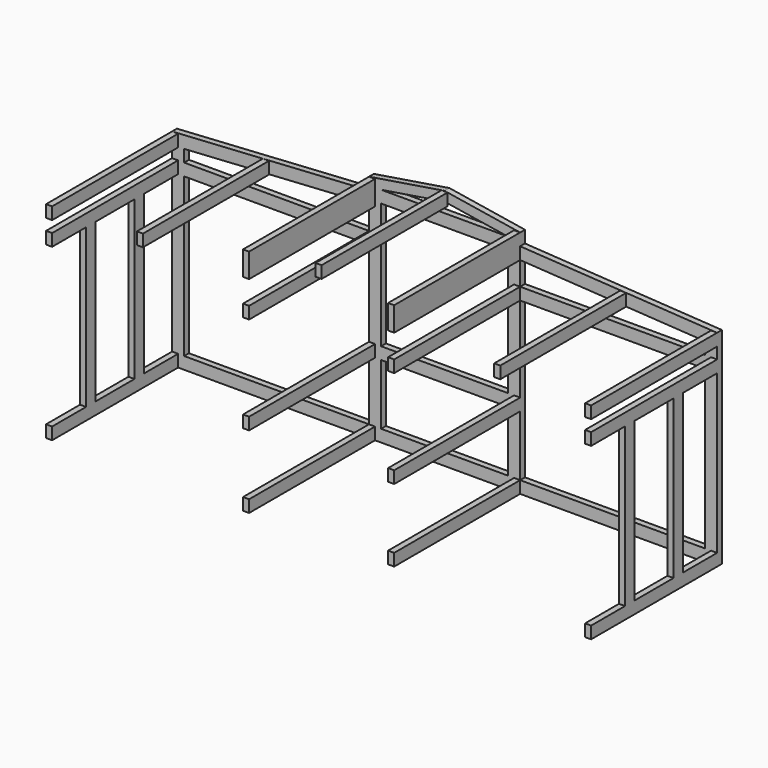
from build123d import *

# Parameters (mm, degrees)
F1_DEPTH = 50
F2_W     = 50
F2_H     = 100
F2_H_2   = 200.1889220677
F3_DEPTH = 1300
F4_W     = 100
F4_H     = 1305.9608832205
F5_DEPTH = 50
F6_W     = 100
F6_H     = 1305.9608832205
F7_DEPTH = 50


with BuildPart() as f1:
    # F0 (on Front) → F1 (new body)
    with BuildSketch(Plane.XZ):
        Polygon((-2250, 0), (0, 0), (2250, 0), (2250, 1700), (623.9322577896, 1800), (623.9322577896, 1900), (0, 2000), (-623.9322577896, 1900), (-623.9322577896, 1800), (-2250, 1700), align=None)
        Polygon((-2150, 1405.9608832205), (-623.9322577896, 1405.9608832205), (-623.9322577896, 600), (-623.9322577896, 100), (-2150, 100), align=None, mode=Mode.SUBTRACT)
        Polygon((0, 600), (523.9322577896, 600), (523.9322577896, 100), (0, 100), (-523.9322577896, 100), (-523.9322577896, 600), align=None, mode=Mode.SUBTRACT)
        Polygon((2150, 1405.9608832205), (2150, 100), (623.9322577896, 100), (623.9322577896, 600), (623.9322577896, 1405.9608832205), align=None, mode=Mode.SUBTRACT)
        Polygon((-623.9322577896, 1505.9608832205), (-2150, 1505.9608832205), (-2150, 1605.9608832205), (-623.9322577896, 1699.8110779323), align=None, mode=Mode.SUBTRACT)
        Polygon((-523.9322577896, 1737.5128050197), (523.9322577896, 1737.5128050197), (523.9322577896, 700), (0, 700), (-523.9322577896, 700), align=None, mode=Mode.SUBTRACT)
        Polygon((-523.9322577896, 1837.5128050197), (0, 1921.4854240417), (523.9322577896, 1837.5128050197), align=None, mode=Mode.SUBTRACT)
        Polygon((623.9322577896, 1505.9608832205), (623.9322577896, 1699.8110779323), (2150, 1605.9608832205), (2150, 1505.9608832205), align=None, mode=Mode.SUBTRACT)
    extrude(amount=F1_DEPTH)

    # F2 (on face) → F3 (join)
    with BuildSketch(Plane.XZ.offset(50)):
        with Locations((-2225, 50)):
            Rectangle(F2_W, F2_H)
        with Locations((-2225, 1650)):
            Rectangle(F2_W, F2_H)
        with Locations((-2225, 1455.9608832205)):
            Rectangle(F2_W, F2_H)
        with Locations((-598.9322577896, 1455.9608832205)):
            Rectangle(F2_W, F2_H)
        with Locations((-598.9322577896, 1799.9055389662)):
            Rectangle(F2_W, F2_H_2)
        with Locations((-1475, 1696.1235396614)):
            Rectangle(F2_W, F2_H)
        with Locations((-598.9322577896, 650)):
            Rectangle(F2_W, F2_H)
        with Locations((-598.9322577896, 50)):
            Rectangle(F2_W, F2_H)
        with Locations((0, 1945.9931547555)):
            Rectangle(F2_W, F2_H)
        with Locations((2225, 1650)):
            Rectangle(F2_W, F2_H)
        with Locations((598.9322577896, 1455.9608832205)):
            Rectangle(F2_W, F2_H)
        with Locations((598.9322577896, 1799.9055389662)):
            Rectangle(F2_W, F2_H_2)
        with Locations((598.9322577896, 50)):
            Rectangle(F2_W, F2_H)
        with Locations((1475, 1696.1235396614)):
            Rectangle(F2_W, F2_H)
        with Locations((598.9322577896, 650)):
            Rectangle(F2_W, F2_H)
        with Locations((2225, 1455.9608832205)):
            Rectangle(F2_W, F2_H)
        with Locations((2225, 50)):
            Rectangle(F2_W, F2_H)
        with Locations((-2225, 50)):
            Rectangle(F2_W, F2_H)
    extrude(amount=F3_DEPTH)

    # F4 (on face) → F5 (join)
    with BuildSketch(Plane(origin=(-2250, 0, 0), x_dir=(0, -1, 0), z_dir=(-1, 0, 0))):
        with Locations((450, 752.9804416103)):
            Rectangle(F4_W, F4_H)
        with Locations((950, 752.9804416103)):
            Rectangle(F4_W, F4_H)
    extrude(amount=-F5_DEPTH)

    # F6 (on face) → F7 (join)
    with BuildSketch(Plane.YZ.offset(2250)):
        with Locations((-950, 752.9804416103)):
            Rectangle(F6_W, F6_H)
        with Locations((-450, 752.9804416103)):
            Rectangle(F6_W, F6_H)
    extrude(amount=-F7_DEPTH)


solid = f1.part
